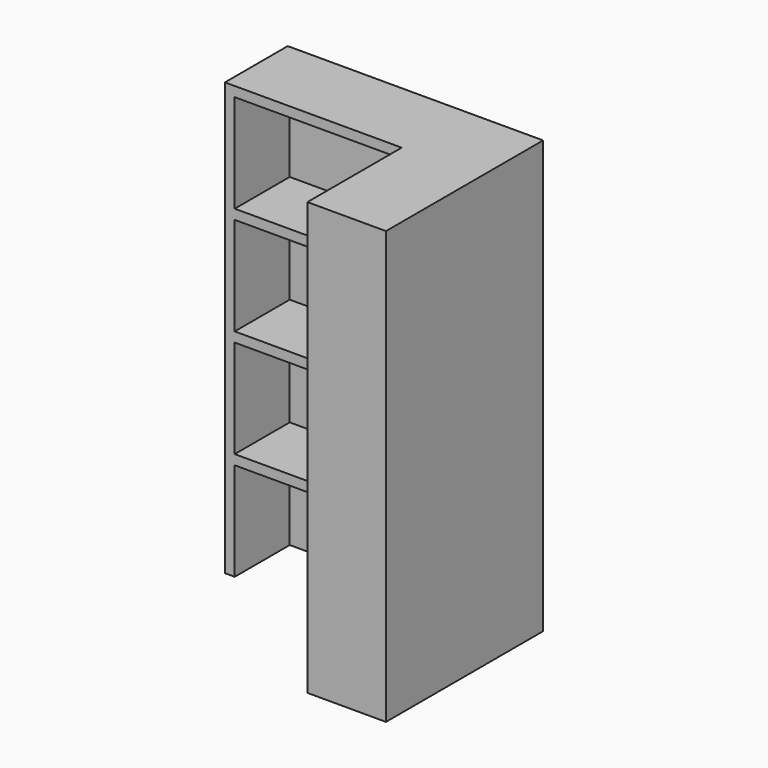
from build123d import *

# Parameters (mm, degrees)
BOX3529_W        = 1200
BOX3529_H        = 900
BOX3529_DEPTH    = 500
ARRAY281_Z_COUNT = 4
ARRAY281_Z_PITCH = 550
BOX3527_W        = 400
BOX3527_H        = 600
BOX3527_DEPTH    = 2200
BOX3528_W        = 1300
BOX3528_H        = 400
BOX3528_DEPTH    = 2200


with BuildPart() as array281:
    # Box3529 → Box3529 (new body)
    with BuildSketch(Plane(origin=(8850, 1350, 0), x_dir=(-1, 0, 0), z_dir=(0, 0, 1))):
        with Locations((600, 450)):
            Rectangle(BOX3529_W, BOX3529_H)
    extrude(amount=BOX3529_DEPTH)

    # Array281 Z: Array281 ×4


with BuildPart() as array281_1:
    add(array281.part)
    with Locations(*[(0, 0, i * ARRAY281_Z_PITCH) for i in range(1, ARRAY281_Z_COUNT)]):
        add(array281.part)


with BuildPart() as box3527:
    # Box3527 → Box3527 (new body)
    with BuildSketch(Plane(origin=(8900, 1000, 0), x_dir=(-1, 0, 0), z_dir=(0, 0, 1))):
        with Locations((200, 300)):
            Rectangle(BOX3527_W, BOX3527_H)
    extrude(amount=BOX3527_DEPTH)


with BuildPart() as cut003:
    # Box3528 → Box3528 (new body)
    with BuildSketch(Plane(origin=(8900, 1400, 0), x_dir=(-1, 0, 0), z_dir=(0, 0, 1))):
        with Locations((650, 200)):
            Rectangle(BOX3528_W, BOX3528_H)
    extrude(amount=BOX3528_DEPTH)

    # Fusion015: union Box3527
    add(box3527.part)

    # Cut003: cut Array281
    add(array281_1.part, mode=Mode.SUBTRACT)


with BuildPart() as cut003_1:
    # Cut003 placement: moved
    add(cut003.part.moved(Location((-100, 0, 0))))


solid = cut003_1.part
